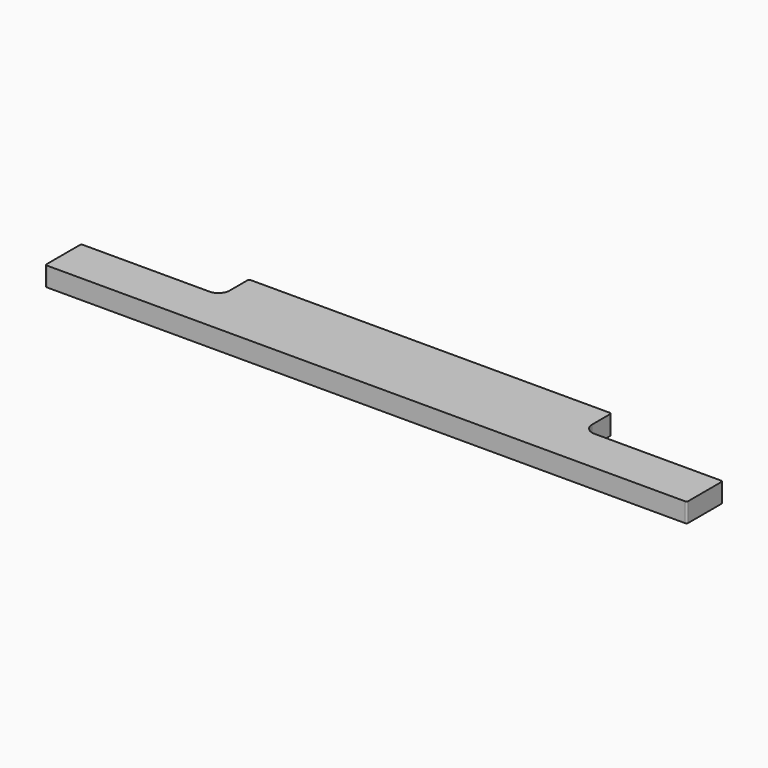
from build123d import *

# Parameters (mm, degrees)
F1_DEPTH = 12
F3_DEPTH = 4
F4_R     = 1


with BuildPart() as f1:
    # F0 (on Top) → F1 (new body)
    with BuildSketch(Plane.XY):
        with BuildLine():
            Line((-200, 28), (-200, 0))
            Line((-200, 0), (200, 0))
            Line((200, 0), (200, 28))
            Line((200, 28), (120, 28))
            ThreePointArc((120, 28), (115.050253, 30.050253), (113, 35))
            Line((113, 35), (113, 50))
            Line((113, 50), (-113, 50))
            Line((-113, 50), (-113, 35))
            ThreePointArc((-113, 35), (-115.050253, 30.050253), (-120, 28))
            Line((-120, 28), (-200, 28))
        make_face()
    extrude(amount=F1_DEPTH)

    # F2 (on face) → F3 (cut)
    with BuildSketch(Plane(origin=(0, 0, 0), x_dir=(1, 0, 0), z_dir=(0, 0, -1))):
        with BuildLine():
            Line((-96.5, -21.899495), (-96.5, -50))
            Line((-96.5, -50), (96.5, -50))
            Line((96.5, -50), (96.5, -21.899495))
            ThreePointArc((96.5, -21.899495), (96.5, -12), (86.600505, -12))
            Line((86.600505, -12), (-86.600505, -12))
            ThreePointArc((-86.600505, -12), (-96.5, -12), (-96.5, -21.899495))
        make_face()
    extrude(amount=-F3_DEPTH, mode=Mode.SUBTRACT)

    # F4
    f4_edges = [f1.edges().sort_by_distance(p)[0] for p in [
        (-200, 0, 6),
        (-200, 28, 6),
        (-113, 50, 6),
        (-96.5, 21.899495, 2),
        (-86.600505, 12, 2),
        (86.600505, 12, 2),
        (96.5, 21.899495, 2),
        (113, 50, 6),
        (200, 28, 6),
        (200, 0, 6),
    ]]
    fillet(f4_edges, radius=F4_R)


solid = f1.part
